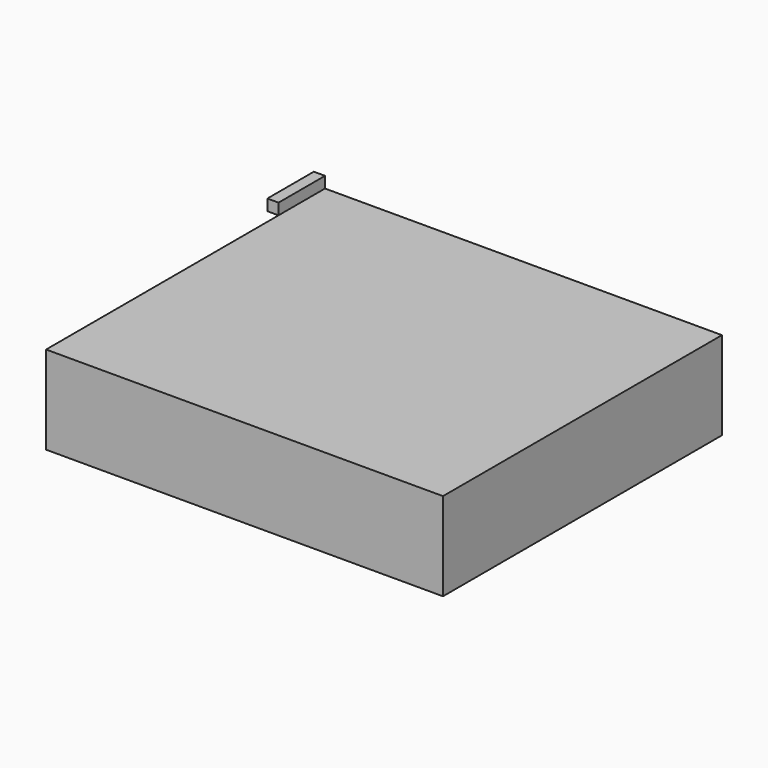
from build123d import *

# Parameters (mm, degrees)
F0_W     = 4.8869550228
F0_H     = 4.8869550228
F1_DEPTH = 25.4
F0_W_2   = 173.4868139029
F0_H_2   = 38.5526269674
F2_DEPTH = 127


with BuildPart() as f1:
    # F0 (on Front) → F1 (new body)
    with BuildSketch(Plane.XZ):
        with Locations((-89.1868844628, 21.7197909951)):
            Rectangle(F0_W, F0_H)
    extrude(amount=F1_DEPTH)



with BuildPart() as f1b:
    # F0 (on Front) → F1, piece 2 (new body)
    with BuildSketch(Plane.XZ):
        Rectangle(F0_W_2, F0_H_2)
    extrude(amount=F1_DEPTH)


with BuildPart() as f1_1:
    add(f1.part)
    # F2 (add): a face of the model
    f2_faces = [f1b.part.faces().sort_by_distance(p)[0] for p in [
        (0, -25.4, 0),
    ]]

    add(f1b.part)  # F2 merges F1b
    extrude(f2_faces, amount=F2_DEPTH)


solid = f1_1.part
